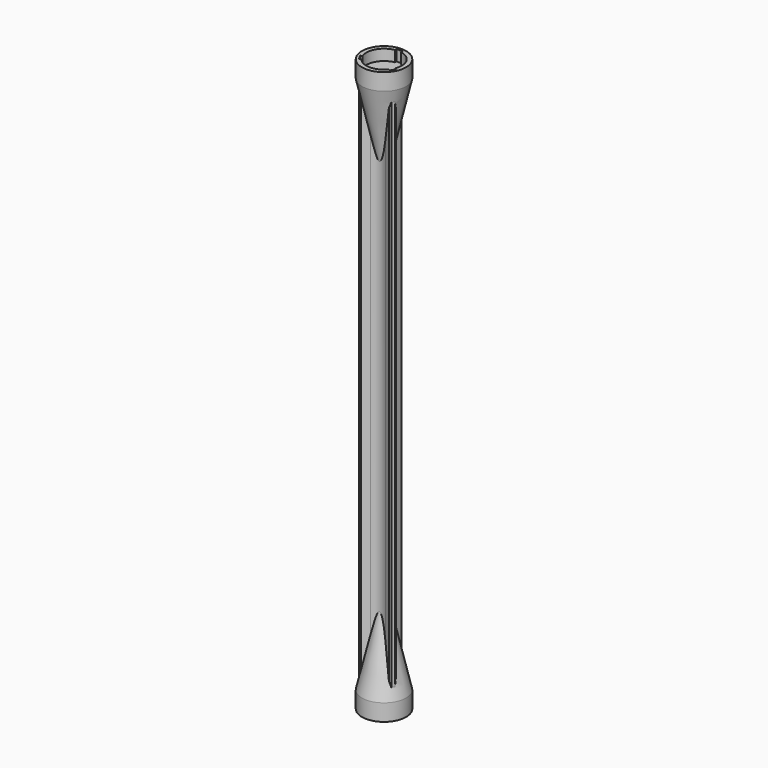
from build123d import *

# Parameters (mm, degrees)
F1_DEPTH = 91.42907
F2_R     = 7.5
F3_DEPTH = 2
F4_DEPTH = 5.7
F5_R     = 5
F6_DEPTH = 25
F6_TAPER = 13
F7_SIZE  = 0.5


with BuildPart() as f1:
    # F0 (on Top) → F1 (new body)
    with BuildSketch(Plane.XY):
        Polygon((1, 6.5773502692), (-1, 6.5773502692), (-1, 0.5773502692), (-6.1961524227, -2.4226497308), (-5.1961524227, -4.1547005384), (0, -1.1547005384), (5.1961524227, -4.1547005384), (6.1961524227, -2.4226497308), (1, 0.5773502692), align=None)
    extrude(amount=F1_DEPTH)

    # F2 (on face) → F3 (join)
    with BuildSketch(Plane.XY.offset(91.42907)):
        Circle(F2_R)
        with BuildLine():
            ThreePointArc((1, 5.941432908), (4.6003056964, 3.8907341852), (6.025, 0))
            ThreePointArc((6.025, 0), (5.9293486908, -1.0693217956), (5.6454318332, -2.1046910502))
            Line((5.6454318332, -2.1046910502), (6.1961524227, -2.4226497308))
            Line((6.1961524227, -2.4226497308), (5.1961524227, -4.1547005384))
            Line((5.1961524227, -4.1547005384), (4.6454318332, -3.8367418578))
            ThreePointArc((4.6454318332, -3.8367418578), (0, -6.025), (-4.6454318332, -3.8367418578))
            Line((-4.6454318332, -3.8367418578), (-5.1961524227, -4.1547005384))
            Line((-5.1961524227, -4.1547005384), (-6.1961524227, -2.4226497308))
            Line((-6.1961524227, -2.4226497308), (-5.6454318332, -2.1046910502))
            ThreePointArc((-5.6454318332, -2.1046910502), (-5.2178030578, 3.0125), (-1, 5.941432908))
            Line((-1, 5.941432908), (-1, 6.5773502692))
            Line((-1, 6.5773502692), (1, 6.5773502692))
            Line((1, 6.5773502692), (1, 5.941432908))
        make_face(mode=Mode.SUBTRACT)
        with BuildLine():
            Line((1, 0.5773502692), (1, 5.941432908))
            ThreePointArc((1, 5.941432908), (0, 6.025), (-1, 5.941432908))
            Line((-1, 5.941432908), (-1, 0.5773502692))
            Line((-1, 0.5773502692), (-5.6454318332, -2.1046910502))
            ThreePointArc((-5.6454318332, -2.1046910502), (-5.2178030578, -3.0125), (-4.6454318332, -3.8367418578))
            Line((-4.6454318332, -3.8367418578), (0, -1.1547005384))
            Line((0, -1.1547005384), (4.6454318332, -3.8367418578))
            ThreePointArc((4.6454318332, -3.8367418578), (5.2178030578, -3.0125), (5.6454318332, -2.1046910502))
            Line((5.6454318332, -2.1046910502), (1, 0.5773502692))
        make_face()
        with BuildLine():
            ThreePointArc((5.6454318332, -2.1046910502), (5.9293486908, -1.0693217956), (6.025, 0))
            ThreePointArc((6.025, 0), (4.6003056964, 3.8907341852), (1, 5.941432908))
            Line((1, 5.941432908), (1, 0.5773502692))
            Line((1, 0.5773502692), (5.6454318332, -2.1046910502))
        make_face()
        with BuildLine():
            ThreePointArc((-4.6454318332, -3.8367418578), (0, -6.025), (4.6454318332, -3.8367418578))
            Line((4.6454318332, -3.8367418578), (0, -1.1547005384))
            Line((0, -1.1547005384), (-4.6454318332, -3.8367418578))
        make_face()
        with BuildLine():
            Line((-1, 0.5773502692), (-1, 5.941432908))
            ThreePointArc((-1, 5.941432908), (-5.2178030578, 3.0125), (-5.6454318332, -2.1046910502))
            Line((-5.6454318332, -2.1046910502), (-1, 0.5773502692))
        make_face()
        with BuildLine():
            ThreePointArc((-4.6454318332, -3.8367418578), (-5.2178030578, -3.0125), (-5.6454318332, -2.1046910502))
            Line((-5.6454318332, -2.1046910502), (-6.1961524227, -2.4226497308))
            Line((-6.1961524227, -2.4226497308), (-5.1961524227, -4.1547005384))
            Line((-5.1961524227, -4.1547005384), (-4.6454318332, -3.8367418578))
        make_face()
        with BuildLine():
            Line((6.1961524227, -2.4226497308), (5.6454318332, -2.1046910502))
            ThreePointArc((5.6454318332, -2.1046910502), (5.2178030578, -3.0125), (4.6454318332, -3.8367418578))
            Line((4.6454318332, -3.8367418578), (5.1961524227, -4.1547005384))
            Line((5.1961524227, -4.1547005384), (6.1961524227, -2.4226497308))
        make_face()
        with BuildLine():
            ThreePointArc((-1, 5.941432908), (0, 6.025), (1, 5.941432908))
            Line((1, 5.941432908), (1, 6.5773502692))
            Line((1, 6.5773502692), (-1, 6.5773502692))
            Line((-1, 6.5773502692), (-1, 5.941432908))
        make_face()
    extrude(amount=F3_DEPTH)

    # F2 (on face) → F4 (join)
    with BuildSketch(Plane.XY.offset(91.42907)):
        Circle(F2_R)
        with BuildLine():
            ThreePointArc((1, 5.941432908), (4.6003056964, 3.8907341852), (6.025, 0))
            ThreePointArc((6.025, 0), (5.9293486908, -1.0693217956), (5.6454318332, -2.1046910502))
            Line((5.6454318332, -2.1046910502), (6.1961524227, -2.4226497308))
            Line((6.1961524227, -2.4226497308), (5.1961524227, -4.1547005384))
            Line((5.1961524227, -4.1547005384), (4.6454318332, -3.8367418578))
            ThreePointArc((4.6454318332, -3.8367418578), (0, -6.025), (-4.6454318332, -3.8367418578))
            Line((-4.6454318332, -3.8367418578), (-5.1961524227, -4.1547005384))
            Line((-5.1961524227, -4.1547005384), (-6.1961524227, -2.4226497308))
            Line((-6.1961524227, -2.4226497308), (-5.6454318332, -2.1046910502))
            ThreePointArc((-5.6454318332, -2.1046910502), (-5.2178030578, 3.0125), (-1, 5.941432908))
            Line((-1, 5.941432908), (-1, 6.5773502692))
            Line((-1, 6.5773502692), (1, 6.5773502692))
            Line((1, 6.5773502692), (1, 5.941432908))
        make_face(mode=Mode.SUBTRACT)
    extrude(amount=F4_DEPTH)

    # F5
    f5_edges = [f1.edges().sort_by_distance(p)[0] for p in [
        (-1, 0.57735, 45.714535),
        (1, 0.57735, 45.714535),
        (0, -1.154701, 45.714535),
    ]]
    fillet(f5_edges, radius=F5_R)

    # F2 (on face) → F6 (join)
    with BuildSketch(Plane.XY.offset(91.42907)):
        Circle(F2_R)
        with BuildLine():
            ThreePointArc((1, 5.941432908), (4.6003056964, 3.8907341852), (6.025, 0))
            ThreePointArc((6.025, 0), (5.9293486908, -1.0693217956), (5.6454318332, -2.1046910502))
            Line((5.6454318332, -2.1046910502), (6.1961524227, -2.4226497308))
            Line((6.1961524227, -2.4226497308), (5.1961524227, -4.1547005384))
            Line((5.1961524227, -4.1547005384), (4.6454318332, -3.8367418578))
            ThreePointArc((4.6454318332, -3.8367418578), (0, -6.025), (-4.6454318332, -3.8367418578))
            Line((-4.6454318332, -3.8367418578), (-5.1961524227, -4.1547005384))
            Line((-5.1961524227, -4.1547005384), (-6.1961524227, -2.4226497308))
            Line((-6.1961524227, -2.4226497308), (-5.6454318332, -2.1046910502))
            ThreePointArc((-5.6454318332, -2.1046910502), (-5.2178030578, 3.0125), (-1, 5.941432908))
            Line((-1, 5.941432908), (-1, 6.5773502692))
            Line((-1, 6.5773502692), (1, 6.5773502692))
            Line((1, 6.5773502692), (1, 5.941432908))
        make_face(mode=Mode.SUBTRACT)
        with BuildLine():
            ThreePointArc((-4.6454318332, -3.8367418578), (-5.2178030578, -3.0125), (-5.6454318332, -2.1046910502))
            Line((-5.6454318332, -2.1046910502), (-6.1961524227, -2.4226497308))
            Line((-6.1961524227, -2.4226497308), (-5.1961524227, -4.1547005384))
            Line((-5.1961524227, -4.1547005384), (-4.6454318332, -3.8367418578))
        make_face()
        with BuildLine():
            Line((-1, 0.5773502692), (-1, 5.941432908))
            ThreePointArc((-1, 5.941432908), (-5.2178030578, 3.0125), (-5.6454318332, -2.1046910502))
            Line((-5.6454318332, -2.1046910502), (-1, 0.5773502692))
        make_face()
        with BuildLine():
            Line((1, 0.5773502692), (1, 5.941432908))
            ThreePointArc((1, 5.941432908), (0, 6.025), (-1, 5.941432908))
            Line((-1, 5.941432908), (-1, 0.5773502692))
            Line((-1, 0.5773502692), (-5.6454318332, -2.1046910502))
            ThreePointArc((-5.6454318332, -2.1046910502), (-5.2178030578, -3.0125), (-4.6454318332, -3.8367418578))
            Line((-4.6454318332, -3.8367418578), (0, -1.1547005384))
            Line((0, -1.1547005384), (4.6454318332, -3.8367418578))
            ThreePointArc((4.6454318332, -3.8367418578), (5.2178030578, -3.0125), (5.6454318332, -2.1046910502))
            Line((5.6454318332, -2.1046910502), (1, 0.5773502692))
        make_face()
        with BuildLine():
            ThreePointArc((-4.6454318332, -3.8367418578), (0, -6.025), (4.6454318332, -3.8367418578))
            Line((4.6454318332, -3.8367418578), (0, -1.1547005384))
            Line((0, -1.1547005384), (-4.6454318332, -3.8367418578))
        make_face()
        with BuildLine():
            ThreePointArc((5.6454318332, -2.1046910502), (5.9293486908, -1.0693217956), (6.025, 0))
            ThreePointArc((6.025, 0), (4.6003056964, 3.8907341852), (1, 5.941432908))
            Line((1, 5.941432908), (1, 0.5773502692))
            Line((1, 0.5773502692), (5.6454318332, -2.1046910502))
        make_face()
        with BuildLine():
            Line((6.1961524227, -2.4226497308), (5.6454318332, -2.1046910502))
            ThreePointArc((5.6454318332, -2.1046910502), (5.2178030578, -3.0125), (4.6454318332, -3.8367418578))
            Line((4.6454318332, -3.8367418578), (5.1961524227, -4.1547005384))
            Line((5.1961524227, -4.1547005384), (6.1961524227, -2.4226497308))
        make_face()
        with BuildLine():
            ThreePointArc((-1, 5.941432908), (0, 6.025), (1, 5.941432908))
            Line((1, 5.941432908), (1, 6.5773502692))
            Line((1, 6.5773502692), (-1, 6.5773502692))
            Line((-1, 6.5773502692), (-1, 5.941432908))
        make_face()
    extrude(amount=-F6_DEPTH, taper=F6_TAPER)

    # F7
    f7_edges = [f1.edges().sort_by_distance(p)[0] for p in [
        (-6.196152, -2.42265, 43.880013),
        (-1, 6.57735, 43.880013),
        (1, 6.57735, 43.880013),
        (6.196152, -2.42265, 43.880013),
        (5.196152, -4.154701, 43.880013),
        (-5.196152, -4.154701, 43.880013),
    ]]
    chamfer(f7_edges, length=F7_SIZE)

    # F8: F1 across plane


with BuildPart() as f1_1:
    add(f1.part)
    add(f1.part.mirror(Plane.XY))


solid = f1_1.part
